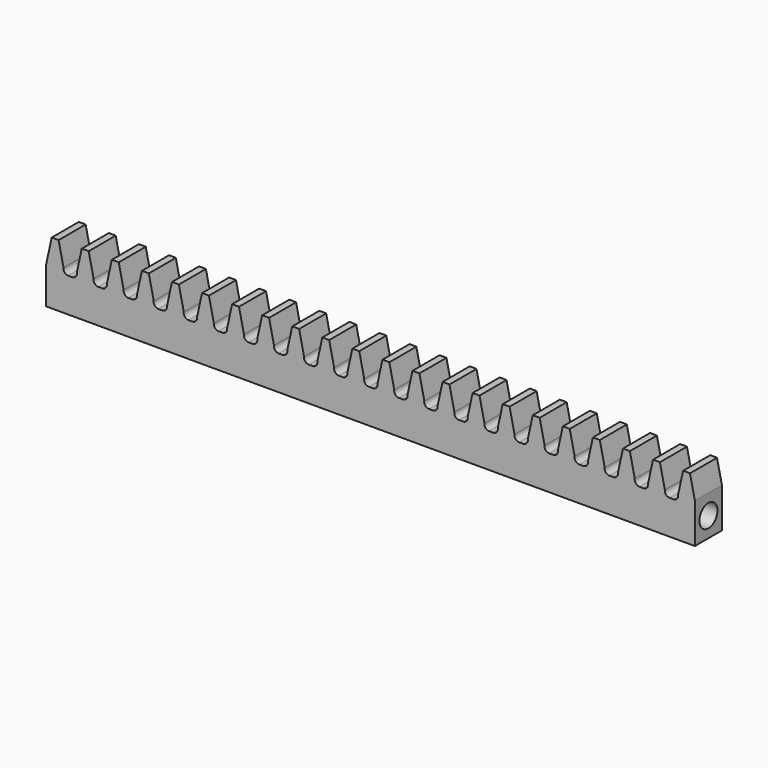
from build123d import *

# Parameters (mm, degrees)
F1_DEPTH = 4.7625
F2_R     = 1.5875
F3_DEPTH = 76.2


with BuildPart() as f1:
    # F0 (on Front) → F1 (new body)
    with BuildSketch(Plane.XZ):
        with BuildLine():
            Line((-35.265064, 1.658459), (-35.956369, 4.833207))
            ThreePointArc((-35.956369, 4.833207), (-36.443574, 4.845127), (-36.930779, 4.833207))
            Line((-36.930779, 4.833207), (-37.721251, 1.203046))
            Line((-37.721251, 1.203046), (-37.721251, -3.962584))
            Line((-37.721251, -3.962584), (53.718749, -3.962584))
            Line((53.718749, -3.962584), (53.718749, 1.658459))
            Line((53.718749, 1.658459), (53.027445, 4.833207))
            ThreePointArc((53.027445, 4.833207), (52.54024, 4.845127), (52.053034, 4.833207))
            Line((52.053034, 4.833207), (51.36173, 1.658459))
            ThreePointArc((51.36173, 1.658459), (51.211935, 1.100465), (50.688277, 0.856379))
            Line((50.688277, 0.856379), (50.154877, 0.856379))
            ThreePointArc((50.154877, 0.856379), (49.631219, 1.100465), (49.481425, 1.658459))
            Line((49.481425, 1.658459), (48.79012, 4.833207))
            ThreePointArc((48.79012, 4.833207), (48.302915, 4.845127), (47.81571, 4.833207))
            Line((47.81571, 4.833207), (47.124405, 1.658459))
            ThreePointArc((47.124405, 1.658459), (46.974611, 1.100465), (46.450953, 0.856379))
            Line((46.450953, 0.856379), (45.917553, 0.856379))
            ThreePointArc((45.917553, 0.856379), (45.393895, 1.100465), (45.2441, 1.658459))
            Line((45.2441, 1.658459), (44.552796, 4.833207))
            ThreePointArc((44.552796, 4.833207), (44.065591, 4.845127), (43.578385, 4.833207))
            Line((43.578385, 4.833207), (42.887081, 1.658459))
            ThreePointArc((42.887081, 1.658459), (42.737286, 1.100465), (42.213628, 0.856379))
            Line((42.213628, 0.856379), (41.680228, 0.856379))
            ThreePointArc((41.680228, 0.856379), (41.156571, 1.100465), (41.006776, 1.658459))
            Line((41.006776, 1.658459), (40.315471, 4.833207))
            ThreePointArc((40.315471, 4.833207), (39.828266, 4.845127), (39.341061, 4.833207))
            Line((39.341061, 4.833207), (38.649756, 1.658459))
            ThreePointArc((38.649756, 1.658459), (38.499962, 1.100465), (37.976304, 0.856379))
            ThreePointArc((37.976304, 0.856379), (37.709604, 0.862093), (37.442904, 0.856379))
            ThreePointArc((37.442904, 0.856379), (36.919246, 1.100465), (36.769452, 1.658459))
            Line((36.769452, 1.658459), (36.078147, 4.833207))
            ThreePointArc((36.078147, 4.833207), (35.590942, 4.845127), (35.103737, 4.833207))
            Line((35.103737, 4.833207), (34.412432, 1.658459))
            ThreePointArc((34.412432, 1.658459), (34.262637, 1.100465), (33.738979, 0.856379))
            Line((33.738979, 0.856379), (33.205579, 0.856379))
            ThreePointArc((33.205579, 0.856379), (32.681922, 1.100465), (32.532127, 1.658459))
            Line((32.532127, 1.658459), (31.840822, 4.833207))
            ThreePointArc((31.840822, 4.833207), (31.353617, 4.845127), (30.866412, 4.833207))
            Line((30.866412, 4.833207), (30.175107, 1.658459))
            ThreePointArc((30.175107, 1.658459), (30.025313, 1.100465), (29.501655, 0.856379))
            ThreePointArc((29.501655, 0.856379), (29.234955, 0.862093), (28.968255, 0.856379))
            ThreePointArc((28.968255, 0.856379), (28.444597, 1.100465), (28.294803, 1.658459))
            Line((28.294803, 1.658459), (27.603498, 4.833207))
            ThreePointArc((27.603498, 4.833207), (27.116293, 4.845127), (26.629088, 4.833207))
            Line((26.629088, 4.833207), (25.937783, 1.658459))
            ThreePointArc((25.937783, 1.658459), (25.787988, 1.100465), (25.264331, 0.856379))
            ThreePointArc((25.264331, 0.856379), (24.997631, 0.862093), (24.730931, 0.856379))
            ThreePointArc((24.730931, 0.856379), (24.207273, 1.100465), (24.057478, 1.658459))
            Line((24.057478, 1.658459), (23.366173, 4.833207))
            ThreePointArc((23.366173, 4.833207), (22.878968, 4.845127), (22.391763, 4.833207))
            Line((22.391763, 4.833207), (21.700459, 1.658459))
            ThreePointArc((21.700459, 1.658459), (21.550664, 1.100465), (21.027006, 0.856379))
            ThreePointArc((21.027006, 0.856379), (20.760306, 0.862093), (20.493606, 0.856379))
            ThreePointArc((20.493606, 0.856379), (19.969948, 1.100465), (19.820154, 1.658459))
            Line((19.820154, 1.658459), (19.128849, 4.833207))
            ThreePointArc((19.128849, 4.833207), (18.641644, 4.845127), (18.154439, 4.833207))
            Line((18.154439, 4.833207), (17.463134, 1.658459))
            ThreePointArc((17.463134, 1.658459), (17.313339, 1.100465), (16.789682, 0.856379))
            ThreePointArc((16.789682, 0.856379), (16.522982, 0.862093), (16.256282, 0.856379))
            ThreePointArc((16.256282, 0.856379), (15.732624, 1.100465), (15.582829, 1.658459))
            Line((15.582829, 1.658459), (14.891525, 4.833207))
            ThreePointArc((14.891525, 4.833207), (14.404319, 4.845127), (13.917114, 4.833207))
            Line((13.917114, 4.833207), (13.22581, 1.658459))
            ThreePointArc((13.22581, 1.658459), (13.076015, 1.100465), (12.552357, 0.856379))
            Line((12.552357, 0.856379), (12.018957, 0.856379))
            ThreePointArc((12.018957, 0.856379), (11.495299, 1.100465), (11.345505, 1.658459))
            Line((11.345505, 1.658459), (10.6542, 4.833207))
            ThreePointArc((10.6542, 4.833207), (10.166995, 4.845127), (9.67979, 4.833207))
            Line((9.67979, 4.833207), (8.988485, 1.658459))
            ThreePointArc((8.988485, 1.658459), (8.838691, 1.100465), (8.315033, 0.856379))
            ThreePointArc((8.315033, 0.856379), (8.048333, 0.862093), (7.781633, 0.856379))
            ThreePointArc((7.781633, 0.856379), (7.257975, 1.100465), (7.10818, 1.658459))
            Line((7.10818, 1.658459), (6.416876, 4.833207))
            ThreePointArc((6.416876, 4.833207), (5.92967, 4.845127), (5.442465, 4.833207))
            Line((5.442465, 4.833207), (4.751161, 1.658459))
            ThreePointArc((4.751161, 1.658459), (4.601366, 1.100465), (4.077708, 0.856379))
            Line((4.077708, 0.856379), (3.544308, 0.856379))
            ThreePointArc((3.544308, 0.856379), (3.02065, 1.100465), (2.870856, 1.658459))
            Line((2.870856, 1.658459), (2.179551, 4.833207))
            ThreePointArc((2.179551, 4.833207), (1.692346, 4.845127), (1.205141, 4.833207))
            Line((1.205141, 4.833207), (0.513836, 1.658459))
            ThreePointArc((0.513836, 1.658459), (0.364042, 1.100465), (-0.159616, 0.856379))
            Line((-0.159616, 0.856379), (-0.693016, 0.856379))
            ThreePointArc((-0.693016, 0.856379), (-1.216674, 1.100465), (-1.366469, 1.658459))
            Line((-1.366469, 1.658459), (-2.057773, 4.833207))
            ThreePointArc((-2.057773, 4.833207), (-2.544978, 4.845127), (-3.032184, 4.833207))
            Line((-3.032184, 4.833207), (-3.723488, 1.658459))
            ThreePointArc((-3.723488, 1.658459), (-3.873283, 1.100465), (-4.396941, 0.856379))
            Line((-4.396941, 0.856379), (-4.930341, 0.856379))
            ThreePointArc((-4.930341, 0.856379), (-5.453999, 1.100465), (-5.603793, 1.658459))
            Line((-5.603793, 1.658459), (-6.295098, 4.833207))
            ThreePointArc((-6.295098, 4.833207), (-6.782303, 4.845127), (-7.269508, 4.833207))
            Line((-7.269508, 4.833207), (-7.960813, 1.658459))
            ThreePointArc((-7.960813, 1.658459), (-8.110607, 1.100465), (-8.634265, 0.856379))
            Line((-8.634265, 0.856379), (-9.167665, 0.856379))
            ThreePointArc((-9.167665, 0.856379), (-9.691323, 1.100465), (-9.841118, 1.658459))
            Line((-9.841118, 1.658459), (-10.532422, 4.833207))
            ThreePointArc((-10.532422, 4.833207), (-11.019627, 4.845127), (-11.506833, 4.833207))
            Line((-11.506833, 4.833207), (-12.198137, 1.658459))
            ThreePointArc((-12.198137, 1.658459), (-12.347932, 1.100465), (-12.87159, 0.856379))
            Line((-12.87159, 0.856379), (-13.40499, 0.856379))
            ThreePointArc((-13.40499, 0.856379), (-13.928647, 1.100465), (-14.078442, 1.658459))
            Line((-14.078442, 1.658459), (-14.769747, 4.833207))
            ThreePointArc((-14.769747, 4.833207), (-15.256952, 4.845127), (-15.744157, 4.833207))
            Line((-15.744157, 4.833207), (-16.435462, 1.658459))
            ThreePointArc((-16.435462, 1.658459), (-16.585256, 1.100465), (-17.108914, 0.856379))
            Line((-17.108914, 0.856379), (-17.642314, 0.856379))
            ThreePointArc((-17.642314, 0.856379), (-18.165972, 1.100465), (-18.315766, 1.658459))
            Line((-18.315766, 1.658459), (-19.007071, 4.833207))
            ThreePointArc((-19.007071, 4.833207), (-19.494276, 4.845127), (-19.981481, 4.833207))
            Line((-19.981481, 4.833207), (-20.672786, 1.658459))
            ThreePointArc((-20.672786, 1.658459), (-20.822581, 1.100465), (-21.346239, 0.856379))
            ThreePointArc((-21.346239, 0.856379), (-21.612939, 0.862093), (-21.879639, 0.856379))
            ThreePointArc((-21.879639, 0.856379), (-22.403296, 1.100465), (-22.553091, 1.658459))
            Line((-22.553091, 1.658459), (-23.244396, 4.833207))
            ThreePointArc((-23.244396, 4.833207), (-23.731601, 4.845127), (-24.218806, 4.833207))
            Line((-24.218806, 4.833207), (-24.910111, 1.658459))
            ThreePointArc((-24.910111, 1.658459), (-25.059905, 1.100465), (-25.583563, 0.856379))
            Line((-25.583563, 0.856379), (-26.116963, 0.856379))
            ThreePointArc((-26.116963, 0.856379), (-26.640621, 1.100465), (-26.790415, 1.658459))
            Line((-26.790415, 1.658459), (-27.48172, 4.833207))
            ThreePointArc((-27.48172, 4.833207), (-27.968925, 4.845127), (-28.45613, 4.833207))
            Line((-28.45613, 4.833207), (-29.147435, 1.658459))
            ThreePointArc((-29.147435, 1.658459), (-29.29723, 1.100465), (-29.820887, 0.856379))
            Line((-29.820887, 0.856379), (-30.354287, 0.856379))
            ThreePointArc((-30.354287, 0.856379), (-30.877945, 1.100465), (-31.02774, 1.658459))
            Line((-31.02774, 1.658459), (-31.719045, 4.833207))
            ThreePointArc((-31.719045, 4.833207), (-32.20625, 4.845127), (-32.693455, 4.833207))
            Line((-32.693455, 4.833207), (-33.38476, 1.658459))
            ThreePointArc((-33.38476, 1.658459), (-33.534554, 1.100465), (-34.058212, 0.856379))
            Line((-34.058212, 0.856379), (-34.591612, 0.856379))
            ThreePointArc((-34.591612, 0.856379), (-35.11527, 1.100465), (-35.265064, 1.658459))
        make_face()
    extrude(amount=F1_DEPTH)

    # F2 (on face) → F3 (cut)
    with BuildSketch(Plane.YZ.offset(53.718749)):
        with Locations((-2.38125, -1.152063)):
            Circle(F2_R)
    extrude(amount=-F3_DEPTH, mode=Mode.SUBTRACT)


solid = f1.part
